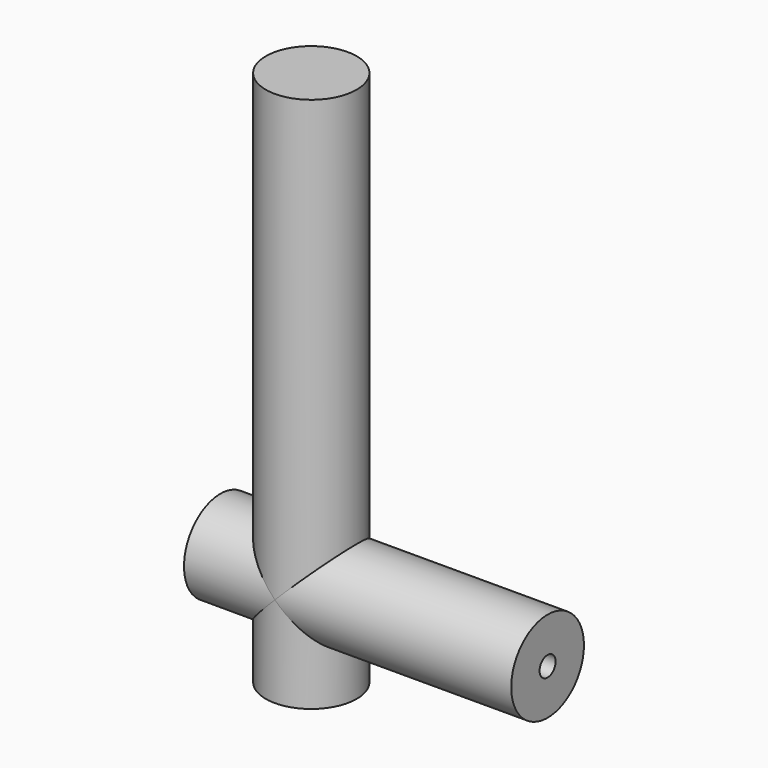
from build123d import *

# Parameters (mm, degrees)
F0_R           = 12.5
F1_DEPTH       = 122.5
F2_R           = 12.5
F3_DEPTH       = 65
F4_DEPTH       = 25
F5_DEPTH       = 25
F6_R           = 5.5
F7_DEPTH       = 30
F9_D           = 5.5
F9_DEPTH       = 100
F9_CSINK_D     = 11
F9_CSINK_ANGLE = 90


with BuildPart() as f1:
    # F0 (on Top) → F1 (new body)
    with BuildSketch(Plane.XY):
        Circle(F0_R)
    extrude(amount=F1_DEPTH)

    # F2 (on Right) → F3 (join)
    with BuildSketch(Plane.YZ):
        Circle(F2_R)
    extrude(amount=F3_DEPTH)

    # F2 (on Right) → F4 (join)
    with BuildSketch(Plane.YZ):
        Circle(F2_R)
    extrude(amount=-F4_DEPTH)

    # F0 (on Top) → F5 (join)
    with BuildSketch(Plane.XY):
        Circle(F0_R)
    extrude(amount=-F5_DEPTH)

    # F6 (on face) → F7 (cut)
    with BuildSketch(Plane(origin=(-25, 0, 0), x_dir=(0, -1, 0), z_dir=(-1, 0, 0))):
        Circle(F6_R)
    extrude(amount=-F7_DEPTH, mode=Mode.SUBTRACT)

    # F9
    with Locations(Plane(origin=(5, 0, 0), x_dir=(0, -1, 0), z_dir=(-1, 0, 0))):
        with Locations((0, 0)):
            CounterSinkHole(F9_D / 2, F9_CSINK_D / 2, depth=F9_DEPTH, counter_sink_angle=F9_CSINK_ANGLE)


solid = f1.part
